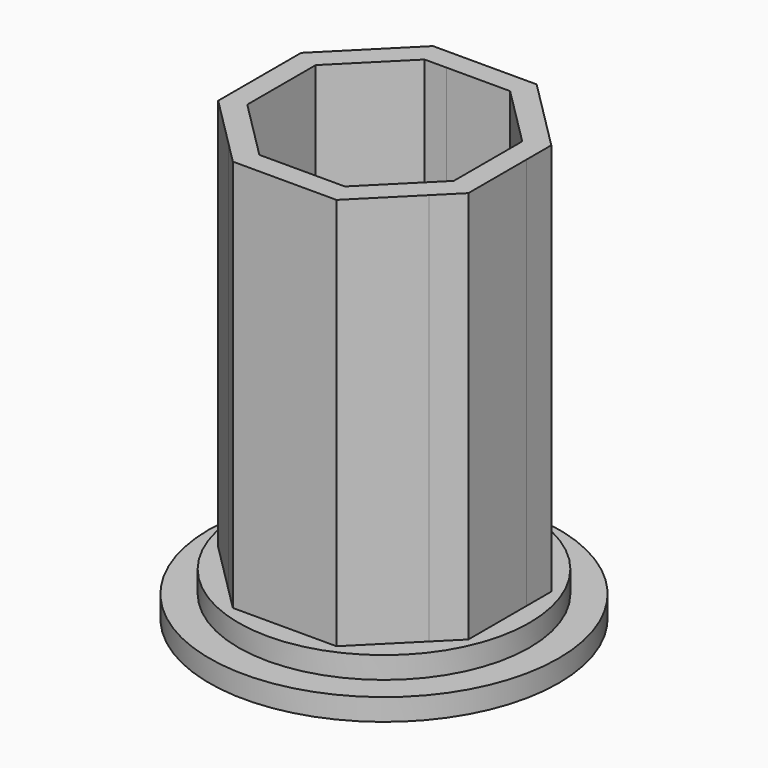
from build123d import *

# Parameters (mm, degrees)
F1_DEPTH = 381
F0_R     = 127
F2_DEPTH = 38.1
F0_R_2   = 152.4
F3_DEPTH = 19.05
F4_R     = 25.4


with BuildPart() as f1:
    # F0 (on Top) → F1 (new body)
    with BuildSketch(Plane.XY):
        Polygon((64.913587, 4.291234), (45.863587, 23.341234), (-17.636413, 23.341234), (-44.577181, 23.349866), (-89.478462, -21.551415), (-108.534565, -40.595311), (-108.534565, -104.095311), (-108.543197, -131.03608), (-63.641916, -175.93736), (-44.59802, -194.993464), (18.90198, -194.993464), (45.85138, -194.993464), (90.752661, -150.092183), (109.802658, -131.029975), (109.802658, -67.529975), (109.814868, -40.610047), align=None)
        Polygon((-89.478462, -48.500815), (-36.686413, 4.291234), (-17.636413, 4.291234), (37.937591, 4.289049), (90.752661, -48.492183), (90.748342, -85.846952), (90.744029, -123.151415), (37.958084, -175.93736), (-36.692516, -175.93736), (-89.478462, -123.151415), (-89.478462, -85.826115), align=None, mode=Mode.SUBTRACT)
    extrude(amount=F1_DEPTH)

    # F0 (on Top) → F2 (join)
    with BuildSketch(Plane.XY):
        with Locations((0, -85.83646)):
            Circle(F0_R)
        Polygon((-17.636413, 23.341234), (45.863587, 23.341234), (64.913587, 4.291234), (109.814868, -40.610047), (109.802658, -67.529975), (109.802658, -131.029975), (90.752661, -150.092183), (45.85138, -194.993464), (18.90198, -194.993464), (-44.59802, -194.993464), (-63.641916, -175.93736), (-108.543197, -131.03608), (-108.534565, -104.095311), (-108.534565, -40.595311), (-89.478462, -21.551415), (-44.577181, 23.349866), align=None, mode=Mode.SUBTRACT)
    extrude(amount=F2_DEPTH)

    # F0 (on Top) → F3 (join)
    with BuildSketch(Plane.XY):
        with Locations((0, -85.83646)):
            Circle(F0_R_2)
        with Locations((0, -85.83646)):
            Circle(F0_R, mode=Mode.SUBTRACT)
    extrude(amount=F3_DEPTH)

    # F4
    f4_edges = [f1.edges().sort_by_distance(p)[0] for p in [
        (-89.478462, -85.826115, 0),
        (-63.085489, -149.544388, 0),
        (-63.082437, -22.10479, 0),
        (-27.161413, 4.291234, 0),
        (10.150589, 4.290141, 0),
        (0.632784, -175.93736, 0),
        (64.351056, -149.544388, 0),
        (90.748345, -85.821799, 0),
        (64.345126, -22.101567, 0),
    ]]
    fillet(f4_edges, radius=F4_R)


solid = f1.part
